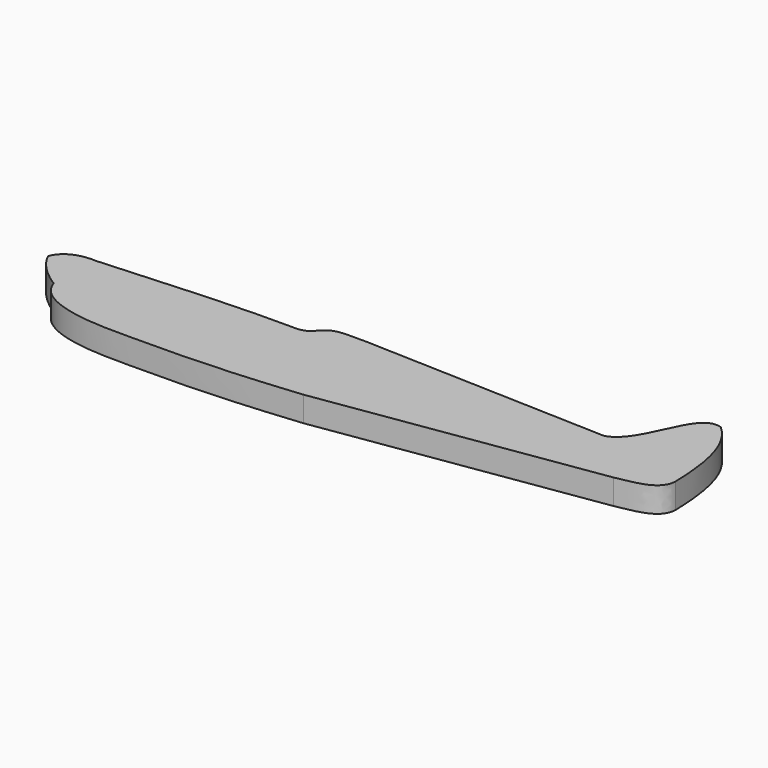
from build123d import *

# Parameters (mm, degrees)
F1_DEPTH = 19.05


with BuildPart() as f1:
    # F0 (on Top) → F1 (new body)
    with BuildSketch(Plane.XY):
        with BuildLine():
            Line((-22.225, 12.7), (-34.925, 12.7))
            add(Edge.make_bspline(
                [(-66.675, 0), (-50.390169, 0), (-58.29126, 13.166945), (-34.925, 12.7)],
                knots=[0, 0, 0, 0, 34.195797, 34.195797, 34.195797, 34.195797], degree=3))
            add(Edge.make_bspline(
                [(-212.725, -6.35), (-115.905948, 0), (-103.471175, 0), (-66.675, 0)],
                knots=[0, 0, 0, 0, 146.187978, 146.187978, 146.187978, 146.187978], degree=3))
            add(Edge.make_bspline(
                [(-212.725, -6.35), (-216.83003, -6.011241), (-233.02415, -6.011241), (-238.125, -19.05)],
                knots=[0, 0, 0, 0, 28.398063, 28.398063, 28.398063, 28.398063], degree=3))
            add(Edge.make_bspline(
                [(-238.125, -19.05), (-235.337615, -26.253896), (-226.530969, -36.658161), (-213.750512, -44.443761)],
                knots=[0, 0, 0, 0, 35.198846, 35.198846, 35.198846, 35.198846], degree=3))
            add(Edge.make_bspline(
                [(-213.750512, -44.443761), (-206.038266, -69.85), (-160.22411, -69.85), (-142.875, -69.85)],
                knots=[0, 0, 0, 0, 75.291535, 75.291535, 75.291535, 75.291535], degree=3))
            add(Edge.make_bspline(
                [(-142.875, -69.85), (-103.68859, -69.85), (-73.586665, -69.85), (-9.525, -63.5)],
                knots=[0, 0, 0, 0, 133.501105, 133.501105, 133.501105, 133.501105], degree=3))
            Line((-9.525, -63.5), (200.025, -31.75))
            add(Edge.make_bspline(
                [(231.775, -12.7), (231.397986, -28.536474), (209.735066, -29.235279), (200.025, -31.75)],
                knots=[0, 0, 0, 0, 37.026545, 37.026545, 37.026545, 37.026545], degree=3))
            add(Edge.make_bspline(
                [(209.385663, 58.115248), (228.397295, 40.942397), (231.005087, 11.735082), (231.775, -12.7)],
                knots=[0, 0, 0, 0, 74.270329, 74.270329, 74.270329, 74.270329], degree=3))
            add(Edge.make_bspline(
                [(209.385663, 58.115248), (186.889964, 66.06854), (184.927508, 11.644769), (161.925, 6.35)],
                knots=[0, 0, 0, 0, 70.229306, 70.229306, 70.229306, 70.229306], degree=3))
            Line((161.925, 6.35), (-22.225, 12.7))
        make_face()
    extrude(amount=F1_DEPTH)


solid = f1.part
